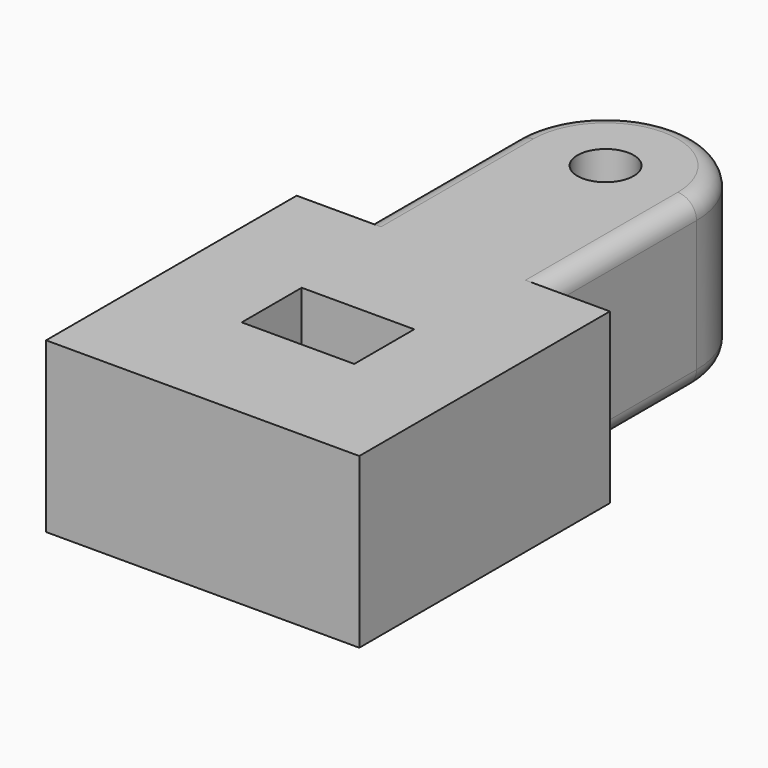
from build123d import *

# Parameters (mm, degrees)
F0_R     = 0.75
F1_DEPTH = 4.5
F2_W     = 3
F2_H     = 2
F3_DEPTH = 3
F4_R     = 0.5


with BuildPart() as f1:
    # F0 (on Top) → F1 (new body)
    with BuildSketch(Plane.XY):
        Polygon((-2.425, 4.175), (-4.175, 4.175), (-4.175, -4.175), (4.175, -4.175), (4.175, 4.175), (2.425, 4.175), align=None)
        with BuildLine():
            Line((-2.425, 9.25), (-2.425, 4.175))
            Line((-2.425, 4.175), (2.425, 4.175))
            Line((2.425, 4.175), (2.425, 9.25))
            ThreePointArc((2.425, 9.25), (0, 11.675), (-2.425, 9.25))
        make_face()
        with Locations((0, 9.25)):
            Circle(F0_R, mode=Mode.SUBTRACT)
    extrude(amount=F1_DEPTH)

    # F2 (on face) → F3 (cut)
    with BuildSketch(Plane.XY.offset(4.5)):
        Rectangle(F2_W, F2_H)
    extrude(amount=-F3_DEPTH, mode=Mode.SUBTRACT)

    # F4
    f4_edges = [f1.edges().sort_by_distance(p)[0] for p in [
        (0, 11.675, 0),
        (2.425, 6.7125, 0),
        (-2.425, 6.7125, 0),
        (0, 11.675, 4.5),
        (2.425, 6.7125, 4.5),
        (-2.425, 6.7125, 4.5),
    ]]
    fillet(f4_edges, radius=F4_R)


solid = f1.part
